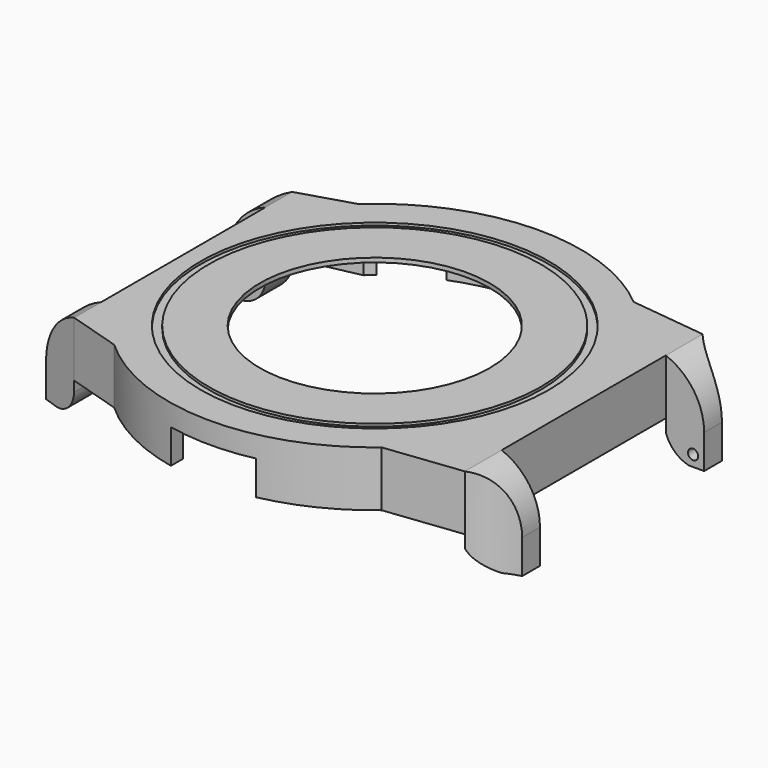
from build123d import *

# Parameters (mm, degrees)
PAD_DEPTH            = 6.5
POCKET_DEPTH         = 6
SKETCH002_R          = 13.5
POCKET001_DEPTH      = 1
SKETCH003_W          = 5.4
SKETCH003_H          = 6.5
PAD001_DEPTH         = 4.5
POCKET002_DEPTH      = 10
SKETCH010_W          = 3.95
SKETCH010_H          = 6.5
PAD002_DEPTH         = 4.5
POCKET005_DEPTH      = 10
SKETCH014_R          = 20.45
SKETCH014_R_2        = 19.5
POCKET008_DEPTH      = 0.3
SKETCH015_R          = 2.2
SKETCH015_R_2        = 0.975
PAD003_DEPTH         = 2
POCKET009_DEPTH      = 4
POCKET010_DEPTH      = 4
PAD004_DEPTH         = 4
SKETCH019_R          = 0.6
POCKET011_DEPTH      = 2
SKETCH020_R          = 0.6
POCKET012_DEPTH      = 2
POCKET013_DEPTH      = 12.151
POCKET013_DEPTH_BACK = 36.251


with BuildPart() as part:
    # Sketch → Pad (new body)
    with BuildSketch(Plane.XY):
        with BuildLine():
            Line((-22.5019915649, 16), (-22.5019915649, -16))
            Line((-22.5019915649, -16), (-16.2858834578, -17.9))
            ThreePointArc((-16.2858834578, -17.9), (-0.4552796053, -24.1957169863), (15.6009615088, -18.5))
            Line((15.6009615088, -18.5), (24.5395016581, -17.45))
            Line((24.5395016581, 17.45), (24.5395016581, -17.45))
            Line((15.6009615088, 18.5), (24.5395016581, 17.45))
            ThreePointArc((15.6009615088, 18.5), (-0.4552796053, 24.1957169863), (-16.2858834578, 17.9))
            Line((-22.5019915649, 16), (-16.2858834578, 17.9))
        make_face()
    extrude(amount=PAD_DEPTH)

    # Sketch001 → Pocket (cut)
    with BuildSketch(Plane.XY):
        with BuildLine():
            Line((-14.8539557021, 16.9), (-21.2122180433, 15.55))
            Line((-21.2122180433, 15.55), (-21.2122180433, -15.55))
            Line((-21.2122180433, -15.55), (-14.8539557021, -16.9))
            ThreePointArc((-14.8539557021, -16.9), (-0.0760301383, -22.4998715423), (14.739402973, -17))
            Line((14.739402973, -17), (23.6191552218, -16.4))
            Line((23.6191552218, 16.4), (23.6191552218, -16.4))
            Line((14.739402973, 17), (23.6191552218, 16.4))
            ThreePointArc((14.739402973, 17), (-0.0760301383, 22.4998715423), (-14.8539557021, 16.9))
        make_face()
    extrude(amount=POCKET_DEPTH, mode=Mode.SUBTRACT)

    # Sketch002 (on Face19 of Pocket) → Pocket001 (cut)
    with BuildSketch(Plane(origin=(0, 0, 6), x_dir=(1, 0, 0), z_dir=(0, 0, -1))):
        Circle(SKETCH002_R)
    extrude(amount=-POCKET001_DEPTH, mode=Mode.SUBTRACT)

    # Sketch003 (on Face7 of Pad) → Pad001 (join)
    with BuildSketch(Plane.YZ.offset(24.5395016581)):
        with Locations((-14.75, 3.25)):
            Rectangle(SKETCH003_W, SKETCH003_H)
        with Locations((14.75, 3.25)):
            Rectangle(SKETCH003_W, SKETCH003_H)
    extrude(amount=PAD001_DEPTH)

    # Sketch006 (on Face22 of Pad001) → Pocket002 (cut)
    with BuildSketch(Plane.XY.offset(6.5)):
        with BuildLine():
            ThreePointArc((24.5395016581, 17.45), (26.5735685567, 15.7065020586), (29.0395016581, 14.6594169812))
            Line((29.0395016581, 17.45), (29.0395016581, 14.6594169812))
            Line((29.0395016581, 17.45), (24.5395016581, 17.45))
        make_face()
        with BuildLine():
            ThreePointArc((29.0395016581, -14.6594169811), (26.5735685567, -15.7065020586), (24.5395016581, -17.45))
            Line((29.0395016581, -17.45), (24.5395016581, -17.45))
            Line((29.0395016581, -14.6594169811), (29.0395016581, -17.45))
        make_face()
    extrude(amount=-POCKET002_DEPTH, mode=Mode.SUBTRACT)

    # Sketch010 (on Face3 of Pad) → Pad002 (join)
    with BuildSketch(Plane(origin=(-22.5019915649, 0, 0), x_dir=(0, -1, 0), z_dir=(-1, 0, 0))):
        with Locations((-14.025, 3.25)):
            Rectangle(SKETCH010_W, SKETCH010_H)
        with Locations((14.025, 3.25)):
            Rectangle(SKETCH010_W, SKETCH010_H)
    extrude(amount=PAD002_DEPTH)

    # Sketch011 (on Face28 of Pad002) → Pocket005 (cut)
    with BuildSketch(Plane.XY.offset(6.5)):
        Polygon((-27.0019915649, 16), (-22.5019915649, 16), (-27.0019915649, 14.5), align=None)
        Polygon((-22.5019915649, -16), (-27.0019915649, -14.5), (-27.0019915649, -16), align=None)
    extrude(amount=-POCKET005_DEPTH, mode=Mode.SUBTRACT)

    # Sketch014 (on Face10 of Pad) → Pocket008 (cut)
    with BuildSketch(Plane.XY.offset(6.5)):
        Circle(SKETCH014_R)
        Circle(SKETCH014_R_2, mode=Mode.SUBTRACT)
    extrude(amount=-POCKET008_DEPTH, mode=Mode.SUBTRACT)

    # Sketch015 (on Face19 of Pocket) → Pad003 (join)
    with BuildSketch(Plane(origin=(0, 0, 6), x_dir=(1, 0, 0), z_dir=(0, 0, -1))):
        with Locations((-18.42, 13.32)):
            Circle(SKETCH015_R)
        with Locations((-18.42, 13.32)):
            Circle(SKETCH015_R_2, mode=Mode.SUBTRACT)
        with Locations((7.27, 18.56)):
            Circle(SKETCH015_R)
        with Locations((7.27, 18.56)):
            Circle(SKETCH015_R_2, mode=Mode.SUBTRACT)
        with Locations((5.37, -19.79)):
            Circle(SKETCH015_R)
        with Locations((5.37, -19.79)):
            Circle(SKETCH015_R_2, mode=Mode.SUBTRACT)
        with Locations((-18.42, -13.32)):
            Circle(SKETCH015_R)
        with Locations((-18.42, -13.32)):
            Circle(SKETCH015_R_2, mode=Mode.SUBTRACT)
    extrude(amount=PAD003_DEPTH)

    # Sketch016 → Pocket009 (cut)
    with BuildSketch(Plane(origin=(0, 0, 0), x_dir=(-1, 0, 0), z_dir=(0, 0, 1))):
        with BuildLine():
            Line((-5, 23.6778377391), (-5, 21.9374109685))
            ThreePointArc((5, 21.9374109685), (0, 22.5), (-5, 21.9374109685))
            Line((5, 23.6778377391), (5, 21.9374109685))
            ThreePointArc((5, 23.6778377391), (0, 24.2), (-5, 23.6778377391))
        make_face()
    extrude(amount=POCKET009_DEPTH, mode=Mode.SUBTRACT)

    # Sketch017 → Pocket010 (cut)
    with BuildSketch(Plane(origin=(0, 0, 0), x_dir=(-1, 0, 0), z_dir=(0, 0, 1))):
        with BuildLine():
            Line((-3.499984119, -22.2261132717), (-3.5, -23.9455632634))
            ThreePointArc((-3.5, -23.9455632634), (0, -24.2000019575), (3.5, -23.9455632634))
            Line((3.5000158811, -22.2261082701), (3.5, -23.9455632634))
            ThreePointArc((-3.499984119, -22.2261132717), (1.60767e-05, -22.5), (3.5000158811, -22.2261082701))
        make_face()
        with BuildLine():
            ThreePointArc((-13.9498796389, -17.6536358312), (-11.25, -19.4855715851), (-8.3135572795, -20.9077680626))
            Line((-8.3135572795, -20.9077680626), (-8.9416927184, -22.487466094))
            ThreePointArc((-15.0038705449, -18.987466094), (-12.1, -20.9578147716), (-8.9416927184, -22.487466094))
            Line((-13.9498796389, -17.6536358312), (-15.0038705449, -18.987466094))
        make_face()
        with BuildLine():
            ThreePointArc((8.3135572795, -20.9077680626), (11.25, -19.4855715851), (13.9498796389, -17.6536358312))
            Line((13.9498796389, -17.6536358312), (15.0038705449, -18.987466094))
            ThreePointArc((8.9416927184, -22.487466094), (12.1, -20.9578147716), (15.0038705449, -18.987466094))
            Line((8.3135572795, -20.9077680626), (8.9416927184, -22.487466094))
        make_face()
    extrude(amount=POCKET010_DEPTH, mode=Mode.SUBTRACT)

    # Sketch018 (on Face8 of Pocket005) → Pad004 (join)
    with BuildSketch(Plane(origin=(0, 0, 0), x_dir=(1, 0, 0), z_dir=(0, 0, -1))):
        Polygon((-27.0019915649, 14.5), (-27.0019915649, 12.05), (-22.5019915649, 12.05), (-22.5019915649, 16), align=None)
        Polygon((-27.0019915649, -12.05), (-22.5019915649, -12.05), (-22.5019915649, -16), (-27.0019915649, -14.5), align=None)
        with BuildLine():
            Line((24.5395016581, 17.45), (24.5395016581, 12.05))
            Line((29.0395016581, 12.05), (24.5395016581, 12.05))
            Line((29.0395016581, 14.6594169811), (29.0395016581, 12.05))
            ThreePointArc((24.5395016581, 17.45), (26.5735685567, 15.7065020586), (29.0395016581, 14.6594169811))
        make_face()
        with BuildLine():
            Line((24.5395016581, -12.05), (24.5395016581, -17.45))
            ThreePointArc((29.0395016581, -14.6594169811), (26.5735685568, -15.7065020586), (24.5395016581, -17.45))
            Line((29.0395016581, -12.05), (29.0395016581, -14.6594169812))
            Line((24.5395016581, -12.05), (29.0395016581, -12.05))
        make_face()
    extrude(amount=PAD004_DEPTH)

    # Sketch019 (on Face64 of Pad004) → Pocket011 (cut)
    with BuildSketch(Plane.XZ.offset(-12.05)):
        with Locations((27.7395016581, -2.7)):
            Circle(SKETCH019_R)
        with Locations((-25.7019915649, -2.7)):
            Circle(SKETCH019_R)
    extrude(amount=-POCKET011_DEPTH, mode=Mode.SUBTRACT)

    # Sketch020 (on Face50 of Pocket011) → Pocket012 (cut)
    with BuildSketch(Plane(origin=(0, -12.05, 0), x_dir=(-1, 0, 0), z_dir=(0, 1, 0))):
        with Locations((-27.7395016581, -2.7)):
            Circle(SKETCH020_R)
        with Locations((25.7019915649, -2.7)):
            Circle(SKETCH020_R)
    extrude(amount=-POCKET012_DEPTH, mode=Mode.SUBTRACT)

    # Sketch021 (on Face48 of Pocket012) → Pocket013 (cut, two sides)
    with BuildSketch(Plane.XZ.offset(-12.05)) as pocket013_sk:
        with BuildLine():
            ThreePointArc((29.0395016581, 0), (27.8047252112, 3.9528470752), (24.5395016581, 6.5))
            Line((24.5395016581, 6.5), (29.0395016581, 6.5))
            Line((29.0395016581, 6.5), (29.0395016581, 0))
        make_face()
        with BuildLine():
            ThreePointArc((24.5395016581, -1.478433716), (25.560340141, -3.0916708473), (27.2395016581, -4))
            Line((24.5395016581, -4), (27.2395016581, -4))
            Line((24.5395016581, -1.478433716), (24.5395016581, -4))
        make_face()
        with BuildLine():
            ThreePointArc((-22.5019915649, 6.5), (-25.767215118, 3.9528470752), (-27.0019915649, 0))
            Line((-27.0019915649, 6.5), (-27.0019915649, 0))
            Line((-22.5019915649, 6.5), (-27.0019915649, 6.5))
        make_face()
        with BuildLine():
            ThreePointArc((-25.3019915649, -4), (-23.3759624024, -3.1260291625), (-22.5019915649, -1.2))
            Line((-22.5019915649, -1.2), (-22.5019915649, -4))
            Line((-22.5019915649, -4), (-25.3019915649, -4))
        make_face()
    extrude(amount=-POCKET013_DEPTH, mode=Mode.SUBTRACT)
    extrude(pocket013_sk.sketch, amount=POCKET013_DEPTH_BACK, mode=Mode.SUBTRACT)


solid = part.part
